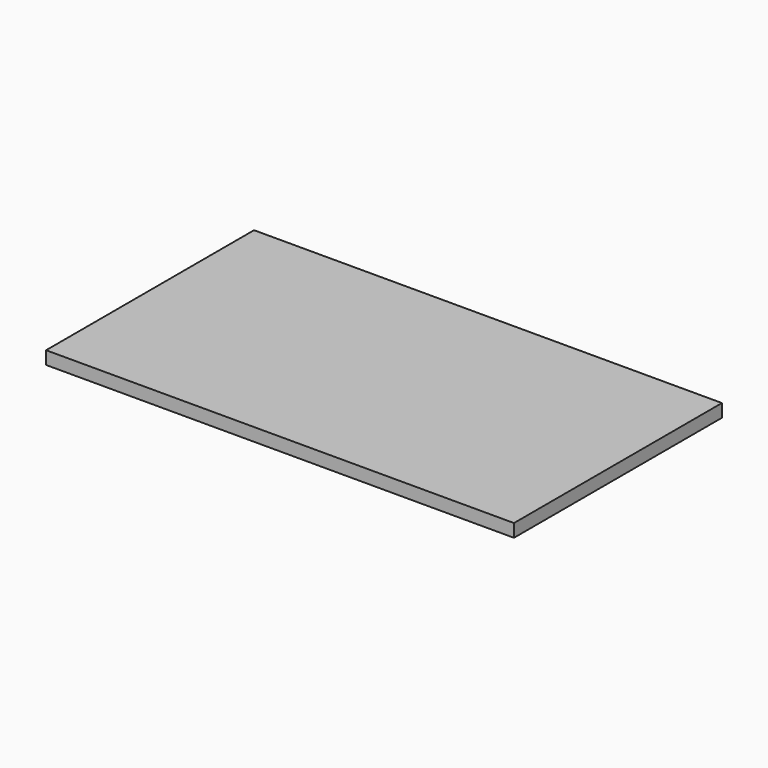
from build123d import *

# Parameters (mm, degrees)
F0_W     = 1800
F0_H     = 1000
F1_DEPTH = 50
F2_W     = 1600
F2_H     = 800
F3_DEPTH = 38.074411


with BuildPart() as f1:
    # F0 (on Top) → F1 (new body)
    with BuildSketch(Plane.XY):
        Rectangle(F0_W, F0_H)
    extrude(amount=F1_DEPTH)

    # F2 (on face) → F3 (cut)
    with BuildSketch(Plane(origin=(0, 0, 0), x_dir=(1, 0, 0), z_dir=(0, 0, -1))):
        Rectangle(F2_W, F2_H)
    extrude(amount=-F3_DEPTH, mode=Mode.SUBTRACT)


solid = f1.part
